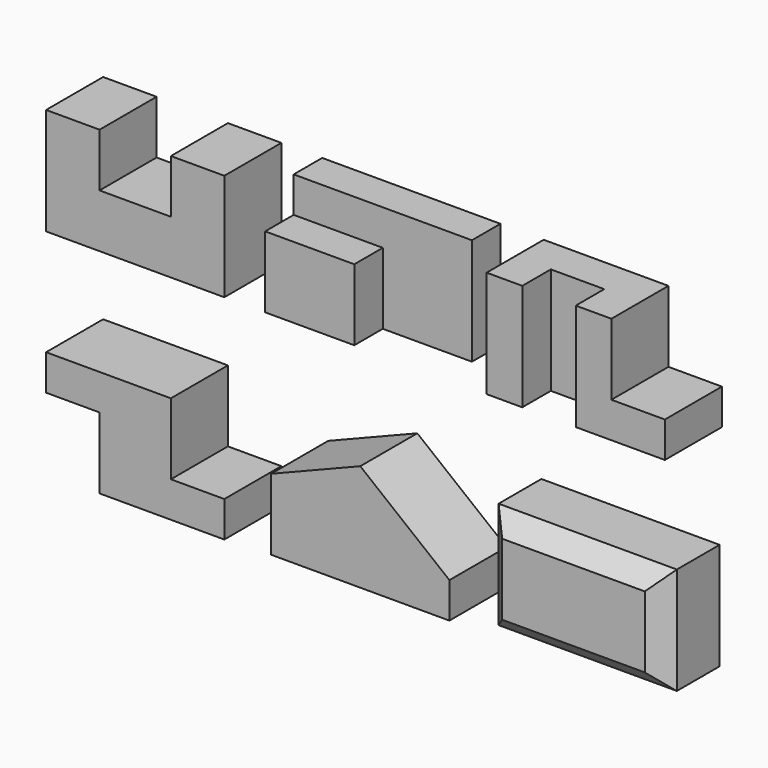
from build123d import *

# Parameters (mm, degrees)
F1_DEPTH  = 101.6
F3_DEPTH  = 152.4
F4_W      = 127
F4_H      = 50.8
F5_DEPTH  = 50.8
F6_W      = 127
F6_H      = 50.8
F7_DEPTH  = 50.8
F9_DEPTH  = 101.6
F10_W     = 76.2
F10_H     = 50.8
F11_DEPTH = 152.4
F13_DEPTH = 101.6
F15_DEPTH = 101.6
F16_W     = 254
F16_H     = 152.4
F17_DEPTH = 101.6
F18_SIZE  = 25.4


with BuildPart() as f1:
    # F0 (on Front) → F1 (new body)
    with BuildSketch(Plane.XZ):
        Polygon((0, 152.4), (0, 0), (254, 0), (254, 152.4), (177.8, 152.4), (177.8, 76.2), (76.2, 76.2), (76.2, 152.4), align=None)
    extrude(amount=-F1_DEPTH)


with BuildPart() as f3:
    # F2 (on Top) → F3 (new body)
    with BuildSketch(Plane.XY):
        Polygon((312.16201, 101.6), (312.16201, 0), (439.16201, 0), (439.16201, 50.8), (566.16201, 50.8), (566.16201, 101.6), align=None)
    extrude(amount=F3_DEPTH)

    # F4 (on face) → F5 (join)
    with BuildSketch(Plane.XZ):
        with Locations((375.66201, 127)):
            Rectangle(F4_W, F4_H)
    extrude(amount=-F5_DEPTH)

    # F6 (on face) → F7 (cut)
    with BuildSketch(Plane.XZ):
        with Locations((375.66201, 127)):
            Rectangle(F6_W, F6_H)
    extrude(amount=-F7_DEPTH, mode=Mode.SUBTRACT)


with BuildPart() as f9:
    # F8 (on face) → F9 (new body)
    with BuildSketch(Plane.XZ):
        Polygon((627.754927, 152.4), (627.754927, 0), (881.754927, 0), (881.754927, 50.8), (805.554927, 50.8), (805.554927, 152.4), align=None)
    extrude(amount=-F9_DEPTH)

    # F10 (on face) → F11 (cut)
    with BuildSketch(Plane.XY.offset(152.4)):
        with Locations((716.654927, 25.4)):
            Rectangle(F10_W, F10_H)
    extrude(amount=-F11_DEPTH, mode=Mode.SUBTRACT)


with BuildPart() as f13:
    # F12 (on Front) → F13 (new body)
    with BuildSketch(Plane.XZ):
        Polygon((177.8, -151.525132), (0, -151.525132), (0, -202.325132), (76.2, -202.325132), (76.2, -303.925132), (254, -303.925132), (254, -253.125132), (177.8, -253.125132), align=None)
    extrude(amount=-F13_DEPTH)


with BuildPart() as f15:
    # F14 (on Front) → F15 (new body)
    with BuildSketch(Plane.XZ):
        Polygon((320.718367, -199.723953), (320.718367, -301.323953), (574.718367, -301.323953), (574.718367, -250.523953), (447.718354, -148.923953), align=None)
    extrude(amount=-F15_DEPTH)


with BuildPart() as f17:
    # F16 (on Front) → F17 (new body)
    with BuildSketch(Plane.XZ):
        with Locations((751.49061, -224.953003)):
            Rectangle(F16_W, F16_H)
    extrude(amount=-F17_DEPTH)

    # F18
    f18_edges = [f17.edges().sort_by_distance(p)[0] for p in [
        (624.49061, 0, -224.953003),
        (751.49061, 0, -301.153003),
        (878.49061, 0, -224.953003),
        (751.49061, 0, -148.753003),
    ]]
    chamfer(f18_edges, length=F18_SIZE)


solid = Compound([f1.part, f3.part, f9.part, f13.part, f15.part, f17.part])
